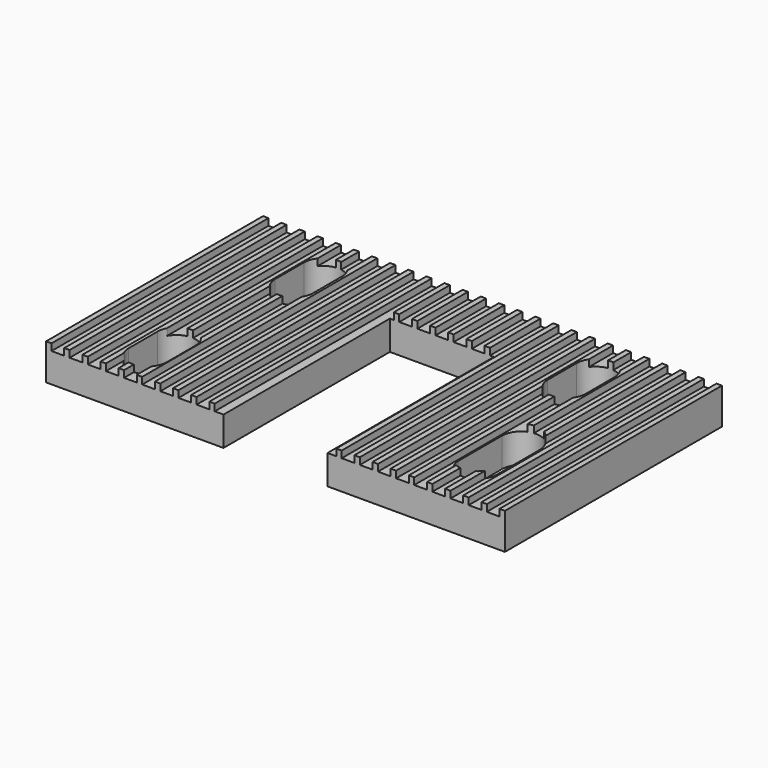
from build123d import *

# Parameters (mm, degrees)
F1_DEPTH = 30
F2_W     = 5.75
F2_H     = 23
F3_DEPTH = 4
F2_W_2   = 4.2
F2_H_2   = 4
F2_H_3   = 6
F4_DEPTH = 4


with BuildPart() as f1:
    # F0 (on Front) → F1 (new body)
    with BuildSketch(Plane.XZ):
        Polygon((0, 4), (0, 0), (50.75, 0), (50.75, 3.25), (50.75, 4), (50.15, 4), (50.15, 3.25), (48.744, 3.25), (48.744, 4), (48.144, 4), (48.144, 3.25), (46.738, 3.25), (46.738, 4), (46.138, 4), (46.138, 3.25), (44.732, 3.25), (44.732, 4), (44.132, 4), (44.132, 3.25), (42.726, 3.25), (42.726, 4), (42.126, 4), (42.126, 3.25), (40.72, 3.25), (40.72, 4), (40.12, 4), (40.12, 3.25), (38.714, 3.25), (38.714, 4), (38.114, 4), (38.114, 3.25), (36.708, 3.25), (36.708, 4), (36.108, 4), (36.108, 3.25), (34.702, 3.25), (34.702, 4), (34.102, 4), (34.102, 3.25), (32.696, 3.25), (32.696, 4), (32.096, 4), (32.096, 3.25), (30.69, 3.25), (30.69, 4), (30.09, 4), (30.09, 3.25), (28.684, 3.25), (28.684, 4), (28.084, 4), (28.084, 3.25), (26.678, 3.25), (26.678, 4), (26.078, 4), (26.078, 3.25), (24.672, 3.25), (24.672, 4), (24.072, 4), (24.072, 3.25), (22.666, 3.25), (22.666, 4), (22.066, 4), (22.066, 3.25), (20.66, 3.25), (20.66, 4), (20.06, 4), (20.06, 3.25), (18.654, 3.25), (18.654, 4), (18.054, 4), (18.054, 3.25), (16.648, 3.25), (16.648, 4), (16.048, 4), (16.048, 3.25), (14.642, 3.25), (14.642, 4), (14.042, 4), (14.042, 3.25), (12.636, 3.25), (12.636, 4), (12.036, 4), (12.036, 3.25), (10.63, 3.25), (10.63, 4), (10.03, 4), (10.03, 3.25), (8.624, 3.25), (8.624, 4), (8.324, 4), (8.024, 4), (8.024, 3.25), (6.618, 3.25), (6.618, 4), (6.318, 4), (6.018, 4), (6.018, 3.25), (4.612, 3.25), (4.612, 4), (4.012, 4), (4.012, 3.25), (2.606, 3.25), (2.606, 4), (2.006, 4), (2.006, 3.25), (0.6, 3.25), (0.6, 4), align=None)
    extrude(amount=F1_DEPTH)

    # F2 (on face) → F3 (cut, through all)
    with BuildSketch(Plane(origin=(0, 0, 0), x_dir=(1, 0, 0), z_dir=(0, 0, -1))):
        with Locations((22.5, 18.5)):
            Rectangle(F2_W, F2_H)
        with Locations((28.25, 18.5)):
            Rectangle(F2_W, F2_H)
    extrude(amount=-F3_DEPTH, mode=Mode.SUBTRACT)

    # F2 (on face) → F4 (cut, through all)
    with BuildSketch(Plane(origin=(0, 0, 0), x_dir=(1, 0, 0), z_dir=(0, 0, -1))):
        with BuildLine():
            ThreePointArc((12.375, 8.55227), (10.275, 10.65227), (8.175, 8.55227))
            Line((8.175, 8.55227), (12.375, 8.55227))
        make_face()
        with Locations((10.275, 6.55227)):
            Rectangle(F2_W_2, F2_H_2)
        with BuildLine():
            Line((12.375, 4.55227), (8.175, 4.55227))
            ThreePointArc((8.175, 4.55227), (10.275, 2.45227), (12.375, 4.55227))
        make_face()
        with BuildLine():
            ThreePointArc((42.525, 8.55227), (40.425, 10.65227), (38.325, 8.55227))
            Line((38.325, 8.55227), (42.525, 8.55227))
        make_face()
        with Locations((40.425, 6.55227)):
            Rectangle(F2_W_2, F2_H_2)
        with BuildLine():
            Line((42.525, 4.55227), (38.325, 4.55227))
            ThreePointArc((38.325, 4.55227), (40.425, 2.45227), (42.525, 4.55227))
        make_face()
        with BuildLine():
            ThreePointArc((10.575, 26.55227), (8.475, 28.65227), (6.375, 26.55227))
            Line((6.375, 26.55227), (10.575, 26.55227))
        make_face()
        with Locations((8.475, 24.55227)):
            Rectangle(F2_W_2, F2_H_2)
        with BuildLine():
            Line((10.575, 22.55227), (6.375, 22.55227))
            ThreePointArc((6.375, 22.55227), (8.475, 20.45227), (10.575, 22.55227))
        make_face()
        with BuildLine():
            ThreePointArc((45.075, 24.05227), (42.975, 26.15227), (40.875, 24.05227))
            Line((40.875, 24.05227), (45.075, 24.05227))
        make_face()
        with Locations((42.975, 21.05227)):
            Rectangle(F2_W_2, F2_H_3)
        with BuildLine():
            Line((45.075, 18.05227), (40.875, 18.05227))
            ThreePointArc((40.875, 18.05227), (42.975, 15.95227), (45.075, 18.05227))
        make_face()
    extrude(amount=-F4_DEPTH, mode=Mode.SUBTRACT)


solid = f1.part
